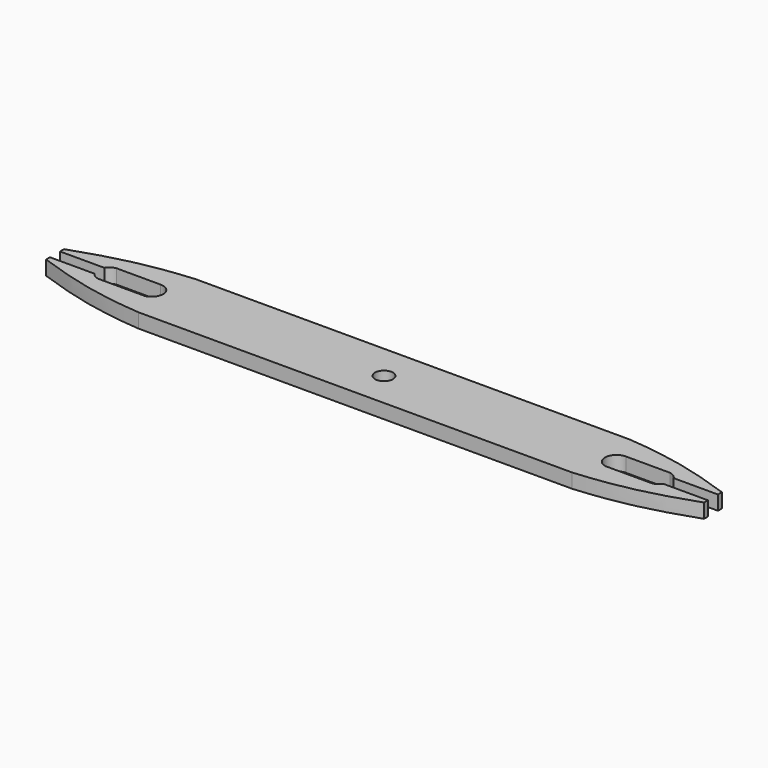
from build123d import *

# Parameters (mm, degrees)
F0_R     = 1.27
F1_DEPTH = 2.032


with BuildPart() as f1:
    # F0 (on Top) → F1 (new body)
    with BuildSketch(Plane.XY):
        with BuildLine():
            Line((46.570983, 0.881779), (46.570983, 1.584744))
            add(Edge.make_bspline(
                [(46.570983, 1.584744), (41.121487, 3.488278), (36.998317, 4.557249), (30.686304, 5.072779)],
                knots=[0, 0, 0, 0, 16.26313, 16.26313, 16.26313, 16.26313], degree=3))
            Line((30.686304, 5.072779), (-30.686304, 5.072779))
            add(Edge.make_bspline(
                [(-46.570983, 1.584744), (-41.121487, 3.488278), (-36.998317, 4.557249), (-30.686304, 5.072779)],
                knots=[0, 0, 0, 0, 16.26313, 16.26313, 16.26313, 16.26313], degree=3))
            Line((-46.570983, 1.584744), (-46.570983, 0.881779))
            Line((-46.570983, 0.881779), (-40.305669, 0.881779))
            ThreePointArc((-40.305669, 0.881779), (-39.817171, 1.38395), (-39.162954, 1.634561))
            Line((-39.162954, 1.634561), (-32.946822, 1.634561))
            ThreePointArc((-32.946822, 1.634561), (-31.290569, 0.170862), (-32.629422, -1.587849))
            Line((-32.629422, -1.587849), (-39.162954, -1.587849))
            ThreePointArc((-39.162954, -1.587849), (-39.786552, -1.356921), (-40.265943, -0.896066))
            Line((-40.265943, -0.896066), (-46.570983, -0.896066))
            Line((-46.570983, -0.896066), (-46.570983, -1.584744))
            add(Edge.make_bspline(
                [(-46.570983, -1.584744), (-41.121487, -3.488278), (-36.998317, -4.557249), (-30.686304, -5.072779)],
                knots=[0, 0, 0, 0, 16.26313, 16.26313, 16.26313, 16.26313], degree=3))
            Line((-30.686304, -5.072779), (30.686304, -5.072779))
            add(Edge.make_bspline(
                [(46.570983, -1.584744), (41.121487, -3.488278), (36.998317, -4.557249), (30.686304, -5.072779)],
                knots=[0, 0, 0, 0, 16.26313, 16.26313, 16.26313, 16.26313], degree=3))
            Line((46.570983, -1.584744), (46.570983, -0.896066))
            Line((46.570983, -0.896066), (40.265943, -0.896066))
            ThreePointArc((40.265943, -0.896066), (39.786552, -1.356921), (39.162954, -1.587849))
            Line((39.162954, -1.587849), (32.629422, -1.587849))
            ThreePointArc((32.629422, -1.587849), (31.290569, 0.170862), (32.946822, 1.634561))
            Line((32.946822, 1.634561), (39.162954, 1.634561))
            ThreePointArc((39.162954, 1.634561), (39.817171, 1.38395), (40.305669, 0.881779))
            Line((40.305669, 0.881779), (46.570983, 0.881779))
        make_face()
        Circle(F0_R, mode=Mode.SUBTRACT)
    extrude(amount=F1_DEPTH)


solid = f1.part
